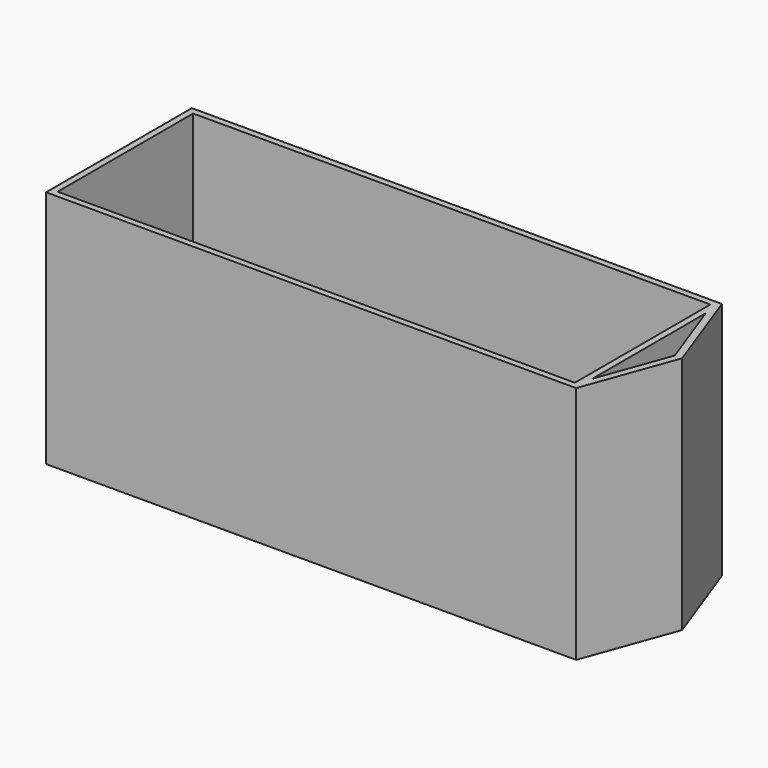
from build123d import *

# Parameters (mm, degrees)
F0_W     = 7137.4
F0_H     = 2336.8
F1_DEPTH = 3302


with BuildPart() as f1:
    # F0 (on Top) → F1 (new body)
    with BuildSketch(Plane.XY):
        Polygon((3657.6, 1257.3), (-3657.6, 1257.3), (-3657.6, -1257.3), (3657.6, -1257.3), (3657.6, -978.033662), (3657.6, 978.033662), align=None)
        Rectangle(F0_W, F0_H, mode=Mode.SUBTRACT)
        Polygon((4114.8, 0), (3657.6, 1257.3), (3657.6, 978.033662), (4013.248604, 0), (3657.6, -978.033662), (3657.6, -1257.3), align=None)
    extrude(amount=F1_DEPTH)


solid = f1.part
